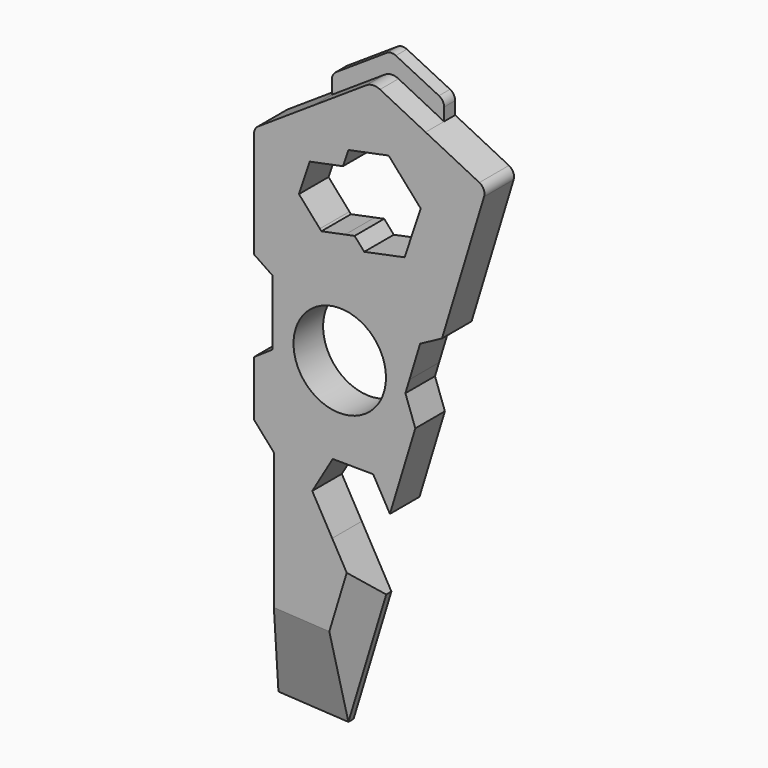
from build123d import *

# Parameters (mm, degrees)
F0_R      = 5
F1_DEPTH  = 4
F3_R      = 1
F4_R      = 1.5
F5_DEPTH  = 1.5
F6_R      = 1.48
F7_R      = 1
F8_R      = 1
F9_DEPTH  = 4
F10_DEPTH = 4
F12_DEPTH = 25
F13_DEPTH = 25
F14_DEPTH = 25
F15_DEPTH = 25
F16_DEPTH = 25
F17_DEPTH = 25
F18_DEPTH = 25
F19_DEPTH = 25
F20_DEPTH = 25
F21_DEPTH = 25
F22_SIZE2 = 3.3107096722
F22_SIZE  = 2.15
F23_SIZE2 = 2.3975903424
F23_SIZE  = 3.3
F24_SIZE2 = 10.1563556727
F24_SIZE  = 3.3


with BuildPart() as f1:
    # F0 (on Front) → F1 (new body)
    with BuildSketch(Plane.XZ):
        Polygon((-5.0394813192, 34.4464560161), (-11.4673425455, 30.2002090896), (-11.4673425455, 14.3180689151), (-9.5205468137, 12.9544524784), (-9.5205468137, 5.9659214999), (-11.4673425455, 4.6023059945), (-11.4673425455, -3.5793893662), (-9.5205468137, -4.943005803), (-9.5205468137, -11.4201806177), (-11.4673425455, -12.7837961231), (-11.4673425455, -24.7997909104), (-3.8956315734, -25.2267909859), (0.1954483631, -11.7619743544), (-3.008507374, -6.1141202787), (-5.1672247355, -2.308786607), (-2.9510677868, 1.4633843035), (1.4238065236, 1.4302215424), (3.2341110933, -1.7609386613), (5.9812411675, 7.2805866294), (4.9106002387, 10.2737202031), (5.3487122304, 11.715661628), (6.5019388672, 15.5112328316), (8.8668211656, 16.7777869175), (13.660922366, 32.55643084), (7.090733743, 35.8415256189), (1.388379907, 38.6927029426), align=None)
        with Locations((-2.1907666232, 11.0733276233)):
            Circle(F0_R, mode=Mode.SUBTRACT)
    extrude(amount=F1_DEPTH)

    # F3
    f3_edges = [f1.edges().sort_by_distance(p)[0] for p in [
        (-11.467343, -2, 30.200209),
        (13.660922, -2, 32.556431),
    ]]
    fillet(f3_edges, radius=F3_R)

    # F4
    f4_edges = [f1.edges().sort_by_distance(p)[0] for p in [
        (1.38838, -2, 38.692703),
    ]]
    fillet(f4_edges, radius=F4_R)

    # F0 (on Front) → F5 (join)
    with BuildSketch(Plane.XZ):
        Polygon((-5.0394813192, 36.4464560161), (-5.0394813192, 34.4464560161), (1.388379907, 38.6927029426), (7.090733743, 35.8415256189), (7.090733743, 37.8415256189), (1.3569573109, 40.6719451668), align=None)
    extrude(amount=F5_DEPTH)

    # F6
    f6_edges = [f1.edges().sort_by_distance(p)[0] for p in [
        (1.38838, -0.75, 38.692703),
    ]]
    fillet(f6_edges, radius=F6_R)

    # F7
    f7_edges = [f1.edges().sort_by_distance(p)[0] for p in [
        (1.356957, -0.75, 40.671945),
    ]]
    fillet(f7_edges, radius=F7_R)

    # F8
    f8_edges = [f1.edges().sort_by_distance(p)[0] for p in [
        (7.090734, -0.75, 37.841526),
        (-5.039481, -0.75, 36.446456),
    ]]
    fillet(f8_edges, radius=F8_R)

    # F0 (on Front) → F9 (join)
    with BuildSketch(Plane.XZ):
        Polygon((-9.5205468137, 12.9544524784), (-11.4673425455, 14.3180689151), (-11.4673425455, 4.6023059945), (-9.5205468137, 5.9659214999), align=None)
    extrude(amount=F9_DEPTH)

    # F0 (on Front) → F10 (join)
    with BuildSketch(Plane.XZ):
        Polygon((-9.5205468137, -4.943005803), (-11.4673425455, -3.5793893662), (-11.4673425455, -12.7837961231), (-9.5205468137, -11.4201806177), align=None)
    extrude(amount=F10_DEPTH)

    # F11 (on face) → F12 (cut)
    with BuildSketch(Plane.XZ.offset(4)):
        Polygon((-11.4673425455, 18.1700624526), (-11.4673425455, 8.4008118138), (-9.4790116895, 9.7482940182), (-9.4790116895, 16.8225802481), align=None)
    extrude(amount=-F12_DEPTH, mode=Mode.SUBTRACT)

    # F11 (on face) → F13 (cut)
    with BuildSketch(Plane.XZ.offset(4)):
        Polygon((-11.4673425455, 2.4312612155), (-11.4673425455, -7.9374192283), (-9.3105754826, -6.4215008169), (-9.3105754826, 0), align=None)
    extrude(amount=-F13_DEPTH, mode=Mode.SUBTRACT)

    # F2 (on face) → F14 (cut)
    with BuildSketch(Plane.XZ.offset(4)):
        Polygon((4.8250659445, 23.1876130557), (6.5640832201, 28.4046710308), (3.0962773256, 32.3153540431), (-1.2611432737, 31.4323578126), (-1.8441430637, 29.694451147), (0.58299979, 26.9467592245), (-0.58299979, 23.4709458933), (0.456882035, 22.2937284557), align=None)
    extrude(amount=-F14_DEPTH, mode=Mode.SUBTRACT)

    # F2 (on face) → F15 (cut)
    with BuildSketch(Plane.XZ.offset(4)):
        Polygon((-4.3431362726, 22.9318731841), (-1.7787461332, 23.4566379151), (-4.2111435343, 26.1996793323), (-3.1332999575, 29.4332138733), (-5.4372854972, 28.9663297384), (-6.6032850771, 25.4905164073), align=None)
    extrude(amount=-F15_DEPTH, mode=Mode.SUBTRACT)

    # F2 (on face) → F16 (cut)
    with BuildSketch(Plane.XZ.offset(4)):
        Polygon((-3.0101426436, 26.2186378159), (-1.4476834802, 24.4498270447), (-0.6194012828, 26.9346765651), (-2.1796810883, 28.6942213364), align=None)
    extrude(amount=-F16_DEPTH, mode=Mode.SUBTRACT)

    # F2 (on face) → F17 (cut)
    with BuildSketch(Plane.XZ.offset(4)):
        Polygon((-1.7787461332, 23.4566379151), (-1.4476834802, 24.4498270447), (-3.0101426436, 26.2186378159), (-2.1796810883, 28.6942213364), (-2.8804242206, 29.4844571071), (-3.1332999575, 29.4332138733), (-4.2111435343, 26.1996793323), align=None)
    extrude(amount=-F17_DEPTH, mode=Mode.SUBTRACT)

    # F2 (on face) → F18 (cut)
    with BuildSketch(Plane.XZ.offset(4)):
        Polygon((-1.4476834802, 24.4498270447), (-0.58299979, 23.4709458933), (0.58299979, 26.9467592245), (-1.8441430637, 29.694451147), (-2.1796810883, 28.6942213364), (-0.6194012828, 26.9346765651), align=None)
    extrude(amount=-F18_DEPTH, mode=Mode.SUBTRACT)

    # F2 (on face) → F19 (cut)
    with BuildSketch(Plane.XZ.offset(4)):
        Polygon((-2.1796810883, 28.6942213364), (-1.8441430637, 29.694451147), (-2.8804242206, 29.4844571071), align=None)
    extrude(amount=-F19_DEPTH, mode=Mode.SUBTRACT)

    # F2 (on face) → F20 (cut)
    with BuildSketch(Plane.XZ.offset(4)):
        Polygon((-1.6073627495, 23.2633669802), (-0.58299979, 23.4709458933), (-1.4476834802, 24.4498270447), (-1.7787461332, 23.4566379151), align=None)
    extrude(amount=-F20_DEPTH, mode=Mode.SUBTRACT)

    # F2 (on face) → F21 (cut)
    with BuildSketch(Plane.XZ.offset(4)):
        Polygon((-4.1761422235, 22.7428244847), (-1.6073627495, 23.2633669802), (-1.7787461332, 23.4566379151), (-4.3431362726, 22.9318731841), align=None)
    extrude(amount=-F21_DEPTH, mode=Mode.SUBTRACT)

    # F22
    f22_edges = [f1.edges().sort_by_distance(p)[0] for p in [
        (-11.467343, -4, -16.368605),
    ]]
    chamfer(f22_edges, length=F22_SIZE, length2=F22_SIZE2)

    # F23
    f23_edges = [f1.edges().sort_by_distance(p)[0] for p in [
        (-1.850092, -4, -18.494383),
    ]]
    f23_side = f1.faces().sort_by_distance((-1.850092, -2, -18.494383))[0]
    chamfer(f23_edges, length=F23_SIZE, length2=F23_SIZE2, reference=f23_side)

    # F24
    f24_edges = [f1.edges().sort_by_distance(p)[0] for p in [
        (-7.838288, -4, -25.004448),
    ]]
    f24_side = f1.faces().sort_by_distance((-7.731254, -1.697794, -25.010484))[0]
    chamfer(f24_edges, length=F24_SIZE, length2=F24_SIZE2, reference=f24_side)


solid = f1.part
